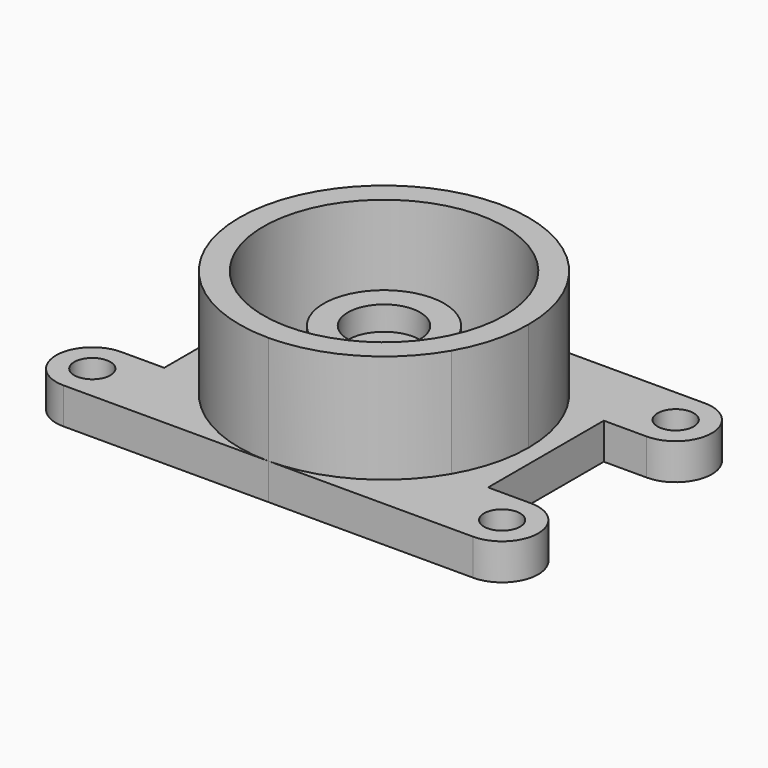
from build123d import *

# Parameters (mm, degrees)
F0_R     = 9.525
F1_DEPTH = 19.05
F0_R_2   = 63.5
F0_R_3   = 31.75
F2_DEPTH = 76.2
F0_R_4   = 19.05
F3_DEPTH = 50.8
F0_R_5   = 6.35
F4_DEPTH = 38.1


with BuildPart() as f1:
    # F0 (on Top) → F1 (new body)
    with BuildSketch(Plane.XY):
        with BuildLine():
            Line((-107.95, -76.2), (0, -76.2))
            ThreePointArc((0, -76.2), (-38.1, -65.9911357684), (-65.9911357684, -38.1))
            Line((-65.9911357684, -38.1), (-85.3222459555, -38.1))
            Line((-85.3222459555, -38.1), (-107.95, -38.1))
            ThreePointArc((-107.95, -38.1), (-94.4796158184, -43.6796158184), (-88.9, -57.15))
            ThreePointArc((-88.9, -57.15), (-94.4796158184, -70.6203841816), (-107.95, -76.2))
        make_face()
        with BuildLine():
            ThreePointArc((-65.9911357684, 38.1), (-38.1, 65.9911357684), (0, 76.2))
            Line((0, 76.2), (-107.95, 76.2))
            ThreePointArc((-107.95, 76.2), (-94.4796158184, 70.6203841816), (-88.9, 57.15))
            ThreePointArc((-88.9, 57.15), (-94.4796158184, 43.6796158184), (-107.95, 38.1))
            Line((-107.95, 38.1), (-85.3222459555, 38.1))
            Line((-85.3222459555, 38.1), (-65.9911357684, 38.1))
        make_face()
        with BuildLine():
            ThreePointArc((-88.9, 57.15), (-94.4796158184, 70.6203841816), (-107.95, 76.2))
            ThreePointArc((-107.95, 76.2), (-127, 57.15), (-107.95, 38.1))
            ThreePointArc((-107.95, 38.1), (-94.4796158184, 43.6796158184), (-88.9, 57.15))
        make_face()
        with Locations((-107.95, 57.15)):
            Circle(F0_R, mode=Mode.SUBTRACT)
        with BuildLine():
            ThreePointArc((-107.95, -38.1), (-127, -57.15), (-107.95, -76.2))
            ThreePointArc((-107.95, -76.2), (-94.4796158184, -70.6203841816), (-88.9, -57.15))
            ThreePointArc((-88.9, -57.15), (-94.4796158184, -43.6796158184), (-107.95, -38.1))
        make_face()
        with Locations((-107.95, -57.15)):
            Circle(F0_R, mode=Mode.SUBTRACT)
        with BuildLine():
            ThreePointArc((-65.9911357684, -38.1), (-76.2, 0), (-65.9911357684, 38.1))
            Line((-65.9911357684, 38.1), (-85.3222459555, 38.1))
            Line((-85.3222459555, 38.1), (-85.3222459555, -38.1))
            Line((-85.3222459555, -38.1), (-65.9911357684, -38.1))
        make_face()
    extrude(amount=F1_DEPTH)


with BuildPart() as f1b:
    # F0 (on Top) → F1, piece 2 (new body)
    with BuildSketch(Plane.XY):
        with BuildLine():
            ThreePointArc((0, 76.2), (38.1, 65.9911357684), (65.9911357684, 38.1))
            Line((65.9911357684, 38.1), (85.3186, 38.1))
            Line((85.3186, 38.1), (107.95, 38.1))
            ThreePointArc((107.95, 38.1), (88.9, 57.15), (107.95, 76.2))
            Line((107.95, 76.2), (0, 76.2))
        make_face()
        with BuildLine():
            ThreePointArc((127, 57.15), (121.4203841816, 70.6203841816), (107.95, 76.2))
            ThreePointArc((107.95, 76.2), (88.9, 57.15), (107.95, 38.1))
            ThreePointArc((107.95, 38.1), (121.4203841816, 43.6796158184), (127, 57.15))
        make_face()
        with Locations((107.95, 57.15)):
            Circle(F0_R, mode=Mode.SUBTRACT)
        with BuildLine():
            Line((85.3186, -38.1), (65.9911357684, -38.1))
            ThreePointArc((65.9911357684, -38.1), (38.1, -65.9911357684), (0, -76.2))
            Line((0, -76.2), (107.95, -76.2))
            ThreePointArc((107.95, -76.2), (88.9, -57.15), (107.95, -38.1))
            Line((107.95, -38.1), (85.3186, -38.1))
        make_face()
        with BuildLine():
            ThreePointArc((107.95, -38.1), (88.9, -57.15), (107.95, -76.2))
            ThreePointArc((107.95, -76.2), (121.4203841816, -70.6203841816), (127, -57.15))
            ThreePointArc((127, -57.15), (121.4203841816, -43.6796158184), (107.95, -38.1))
        make_face()
        with Locations((107.95, -57.15)):
            Circle(F0_R, mode=Mode.SUBTRACT)
        with BuildLine():
            ThreePointArc((65.9911357684, 38.1), (73.6035479632, 19.7220112368), (76.2, 0))
            ThreePointArc((76.2, 0), (73.6035479632, -19.7220112368), (65.9911357684, -38.1))
            Line((65.9911357684, -38.1), (85.3186, -38.1))
            Line((85.3186, -38.1), (85.3186, 38.1))
            Line((85.3186, 38.1), (65.9911357684, 38.1))
        make_face()
        with BuildLine():
            ThreePointArc((65.9911357684, 38.1), (73.6035479632, 19.7220112368), (76.2, 0))
            ThreePointArc((76.2, 0), (73.6035479632, -19.7220112368), (65.9911357684, -38.1))
            Line((65.9911357684, -38.1), (85.3186, -38.1))
            Line((85.3186, -38.1), (85.3186, 38.1))
            Line((85.3186, 38.1), (65.9911357684, 38.1))
        make_face()
    extrude(amount=F1_DEPTH)


with BuildPart() as f1c:
    # F0 (on Top) → F1, piece 3 (new body)
    with BuildSketch(Plane.XY):
        Circle(F0_R_2)
        Circle(F0_R_3, mode=Mode.SUBTRACT)
    extrude(amount=F1_DEPTH)

    # F0 (on Top) → F3 (join)
    with BuildSketch(Plane.XY):
        Circle(F0_R_3)
        Circle(F0_R_4, mode=Mode.SUBTRACT)
    extrude(amount=F3_DEPTH)

    # F0 (on Top) → F4 (join)
    with BuildSketch(Plane.XY):
        Circle(F0_R_4)
        Circle(F0_R_5, mode=Mode.SUBTRACT)
    extrude(amount=F4_DEPTH)


with BuildPart() as f2:
    # F0 (on Top) → F2 (new body)
    with BuildSketch(Plane.XY):
        with BuildLine():
            ThreePointArc((65.9911357684, -38.1), (73.6035479632, -19.7220112368), (76.2, 0))
            ThreePointArc((76.2, 0), (73.6035479632, 19.7220112368), (65.9911357684, 38.1))
            ThreePointArc((65.9911357684, 38.1), (38.1, 65.9911357684), (0, 76.2))
            ThreePointArc((0, 76.2), (-38.1, 65.9911357684), (-65.9911357684, 38.1))
            ThreePointArc((-65.9911357684, 38.1), (-76.2, 0), (-65.9911357684, -38.1))
            ThreePointArc((-65.9911357684, -38.1), (-38.1, -65.9911357684), (0, -76.2))
            ThreePointArc((0, -76.2), (38.1, -65.9911357684), (65.9911357684, -38.1))
        make_face()
        Circle(F0_R_2, mode=Mode.SUBTRACT)
    extrude(amount=F2_DEPTH)


solid = Compound([f1.part, f1b.part, f1c.part, f2.part])
